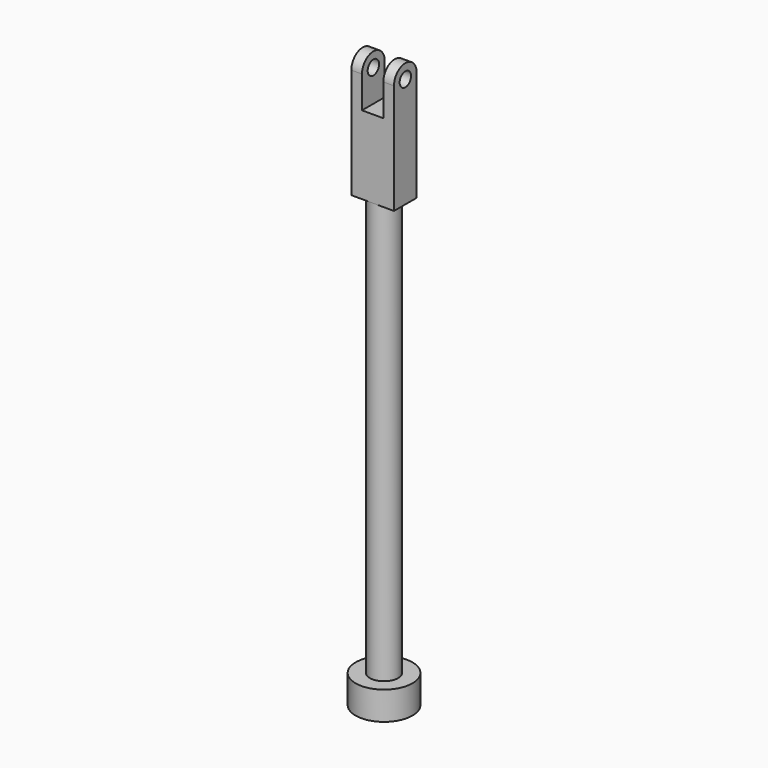
from build123d import *

# Parameters (mm, degrees)
F0_R      = 12.7
F1_DEPTH  = 187.325
F3_W      = 38.1
F3_H      = 25.4
F4_DEPTH  = 98.425
F5_W      = 38.1
F5_H      = 12.7
F8_D      = 12.7
F9_R      = 25.4
F10_DEPTH = 25.4
F11_W     = 125.786887
F11_H     = 48.075629
F12_DEPTH = 9.525


with BuildPart() as f1:
    # F0 (on Top) → F1 (new body, symmetric)
    with BuildSketch(Plane.XY):
        Circle(F0_R)
    extrude(amount=F1_DEPTH, both=True)

    # F3 (on offset) → F4 (join)
    with BuildSketch(Plane.XY.offset(187.325)):
        Rectangle(F3_W, F3_H)
    extrude(amount=F4_DEPTH)

    # F5 (on face) → F6 (revolve)
    with BuildSketch(Plane.XY.offset(285.75)):
        with Locations((0, 6.35)):
            Rectangle(F5_W, F5_H)
    revolve(axis=Axis((0, 0, 285.75), (1, 0, 0)))

    # F8 (through all)
    with Locations(Plane.YZ.offset(19.05)):
        with Locations((0, 285.75)):
            Hole(F8_D / 2)

    # F9 (on face) → F10 (join)
    with BuildSketch(Plane(origin=(0, 0, -187.325), x_dir=(1, 0, 0), z_dir=(0, 0, -1))):
        Circle(F9_R)
    extrude(amount=F10_DEPTH)

    # F11 (on Right) → F12 (cut, symmetric)
    with BuildSketch(Plane.YZ):
        with Locations((7.106817, 281.212815)):
            Rectangle(F11_W, F11_H)
    extrude(amount=F12_DEPTH, both=True, mode=Mode.SUBTRACT)


solid = f1.part
